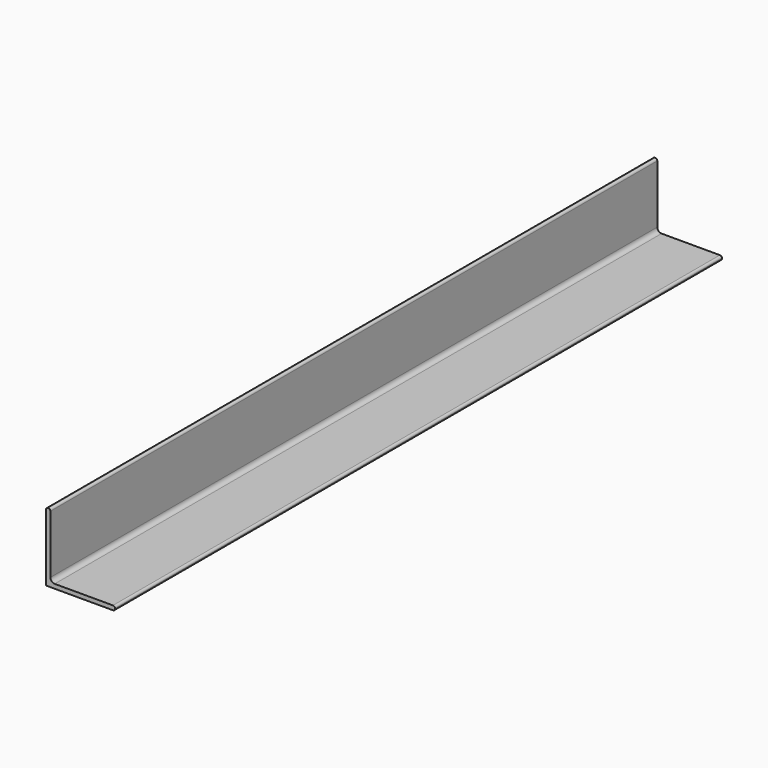
from build123d import *

# Parameters (mm, degrees)
F1_DEPTH = 558.8


with BuildPart() as f1:
    # F0 (on Front) → F1 (new body)
    with BuildSketch(Plane.XZ):
        with BuildLine():
            Line((0, 49.276), (0, 0))
            Line((0, 0), (49.276, 0))
            ThreePointArc((49.276, 0), (50.353631, 0.446369), (50.8, 1.524))
            Line((50.8, 1.524), (50.8, 1.651))
            ThreePointArc((50.8, 1.651), (50.353631, 2.728631), (49.276, 3.175))
            Line((49.276, 3.175), (6.35, 3.175))
            ThreePointArc((6.35, 3.175), (4.104936, 4.104936), (3.175, 6.35))
            Line((3.175, 6.35), (3.175, 49.276))
            ThreePointArc((3.175, 49.276), (2.728631, 50.353631), (1.651, 50.8))
            Line((1.651, 50.8), (1.524, 50.8))
            ThreePointArc((1.524, 50.8), (0.446369, 50.353631), (0, 49.276))
        make_face()
    extrude(amount=F1_DEPTH)


solid = f1.part
